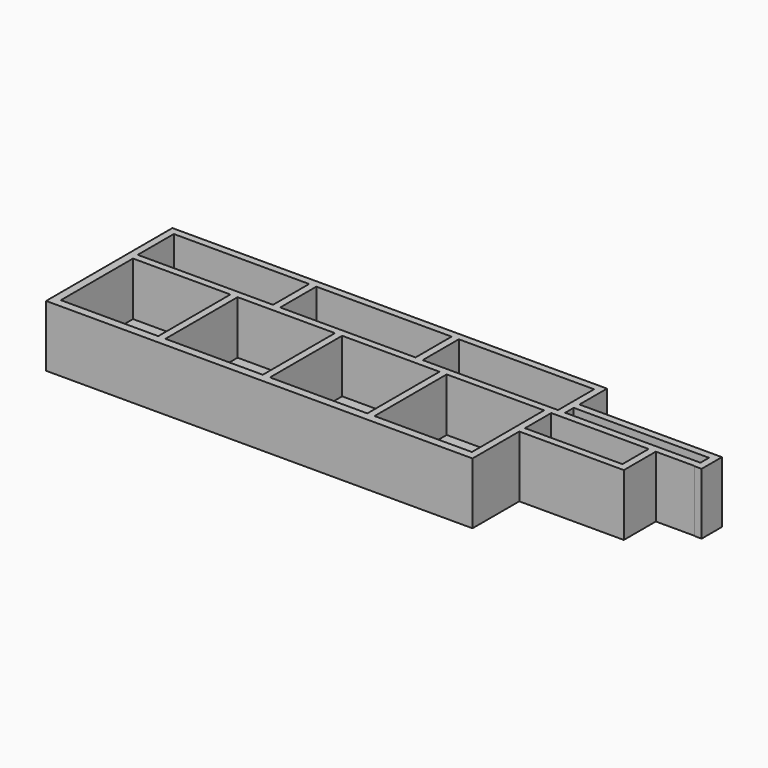
from build123d import *

# Parameters (mm, degrees)
F0_W     = 23.75
F0_H     = 22
F1_DEPTH = 15
F2_DEPTH = 2
F3_DEPTH = 2


with BuildPart() as f1:
    # F0 (on Top) → F1 (new body)
    with BuildSketch(Plane.XY):
        Polygon((-34.75, -9.78861), (-34.75, -11.78861), (69.25, -11.78861), (69.25, 2.46139), (94.75, 2.46139), (94.75, 12.21139), (104.25, 12.21139), (104.25, 12.13003), (105.9946, 12.13003), (105.9946, 18.31139), (104.25, 18.31139), (71.25, 18.31139), (71.25, 24.96139), (71.25, 26.71139), (-26.958708, 26.71139), (-34.75, 26.71139), (-34.75, 24.96139), (-34.75, 13.96139), (-34.75, 12.21139), align=None)
        Polygon((-32.75, -9.78861), (-32.75, 12.21139), (-19.336179, 12.21139), (-9, 12.21139), (-9, -9.78861), (-19.336179, -9.78861), align=None, mode=Mode.SUBTRACT)
        with Locations((4.625, 1.21139)):
            Rectangle(F0_W, F0_H, mode=Mode.SUBTRACT)
        with Locations((30.125, 1.21139)):
            Rectangle(F0_W, F0_H, mode=Mode.SUBTRACT)
        with Locations((55.625, 1.21139)):
            Rectangle(F0_W, F0_H, mode=Mode.SUBTRACT)
        Polygon((0, 13.96139), (-33, 13.96139), (-33, 24.96139), (-26.958708, 24.96139), (0, 24.96139), align=None, mode=Mode.SUBTRACT)
        Polygon((1.75, 13.96139), (1.75, 24.96139), (24.202205, 24.96139), (32.815558, 24.96139), (34.75, 24.96139), (34.75, 13.96139), (32.815558, 13.96139), (24.202205, 13.96139), align=None, mode=Mode.SUBTRACT)
        Polygon((69.25, 4.21139), (69.25, 12.21139), (87.25, 12.21139), (93, 12.21139), (93, 4.21139), align=None, mode=Mode.SUBTRACT)
        Polygon((102.25, 13.96139), (71.25, 13.96139), (71.25, 16.56139), (104.2446, 16.56139), (104.2446, 13.96139), align=None, mode=Mode.SUBTRACT)
        Polygon((36.5, 13.96139), (36.5, 24.96139), (69.5, 24.96139), (69.5, 18.31139), (69.5, 16.56139), (69.5, 13.96139), (69.25, 13.96139), (63.25, 13.96139), align=None, mode=Mode.SUBTRACT)
    extrude(amount=F1_DEPTH)

    # F0 (on Top) → F2 (join)
    with BuildSketch(Plane.XY):
        Polygon((-34.75, -9.78861), (-34.75, -11.78861), (69.25, -11.78861), (69.25, 2.46139), (94.75, 2.46139), (94.75, 12.21139), (104.25, 12.21139), (104.25, 12.13003), (105.9946, 12.13003), (105.9946, 18.31139), (104.25, 18.31139), (71.25, 18.31139), (71.25, 24.96139), (71.25, 26.71139), (-26.958708, 26.71139), (-34.75, 26.71139), (-34.75, 24.96139), (-34.75, 13.96139), (-34.75, 12.21139), align=None)
        Polygon((-32.75, -9.78861), (-32.75, 12.21139), (-19.336179, 12.21139), (-9, 12.21139), (-9, -9.78861), (-19.336179, -9.78861), align=None, mode=Mode.SUBTRACT)
        with Locations((4.625, 1.21139)):
            Rectangle(F0_W, F0_H, mode=Mode.SUBTRACT)
        with Locations((30.125, 1.21139)):
            Rectangle(F0_W, F0_H, mode=Mode.SUBTRACT)
        with Locations((55.625, 1.21139)):
            Rectangle(F0_W, F0_H, mode=Mode.SUBTRACT)
        Polygon((0, 13.96139), (-33, 13.96139), (-33, 24.96139), (-26.958708, 24.96139), (0, 24.96139), align=None, mode=Mode.SUBTRACT)
        Polygon((1.75, 13.96139), (1.75, 24.96139), (24.202205, 24.96139), (32.815558, 24.96139), (34.75, 24.96139), (34.75, 13.96139), (32.815558, 13.96139), (24.202205, 13.96139), align=None, mode=Mode.SUBTRACT)
        Polygon((69.25, 4.21139), (69.25, 12.21139), (87.25, 12.21139), (93, 12.21139), (93, 4.21139), align=None, mode=Mode.SUBTRACT)
        Polygon((102.25, 13.96139), (71.25, 13.96139), (71.25, 16.56139), (104.2446, 16.56139), (104.2446, 13.96139), align=None, mode=Mode.SUBTRACT)
        Polygon((36.5, 13.96139), (36.5, 24.96139), (69.5, 24.96139), (69.5, 18.31139), (69.5, 16.56139), (69.5, 13.96139), (69.25, 13.96139), (63.25, 13.96139), align=None, mode=Mode.SUBTRACT)
        Polygon((71.25, 16.56139), (71.25, 13.96139), (102.25, 13.96139), (104.2446, 13.96139), (104.2446, 16.56139), align=None)
    extrude(amount=F2_DEPTH)

    # F0 (on Top) → F3 (join)
    with BuildSketch(Plane.XY):
        Polygon((69.5, 24.96139), (36.5, 24.96139), (36.5, 13.96139), (63.25, 13.96139), (69.25, 13.96139), (69.5, 13.96139), (69.5, 16.56139), (69.5, 18.31139), align=None)
        with Locations((55.625, 1.21139)):
            Rectangle(F0_W, F0_H)
        Polygon((87.25, 12.21139), (69.25, 12.21139), (69.25, 4.21139), (93, 4.21139), (93, 12.21139), align=None)
        with Locations((30.125, 1.21139)):
            Rectangle(F0_W, F0_H)
        Polygon((24.202205, 24.96139), (1.75, 24.96139), (1.75, 13.96139), (24.202205, 13.96139), (32.815558, 13.96139), (34.75, 13.96139), (34.75, 24.96139), (32.815558, 24.96139), align=None)
        with Locations((4.625, 1.21139)):
            Rectangle(F0_W, F0_H)
        Polygon((-33, 24.96139), (-33, 13.96139), (0, 13.96139), (0, 24.96139), (-26.958708, 24.96139), align=None)
        Polygon((-19.336179, 12.21139), (-32.75, 12.21139), (-32.75, -9.78861), (-19.336179, -9.78861), (-9, -9.78861), (-9, 12.21139), align=None)
        Polygon((71.25, 16.56139), (71.25, 13.96139), (102.25, 13.96139), (104.2446, 13.96139), (104.2446, 16.56139), align=None)
    extrude(amount=F3_DEPTH)


solid = f1.part
